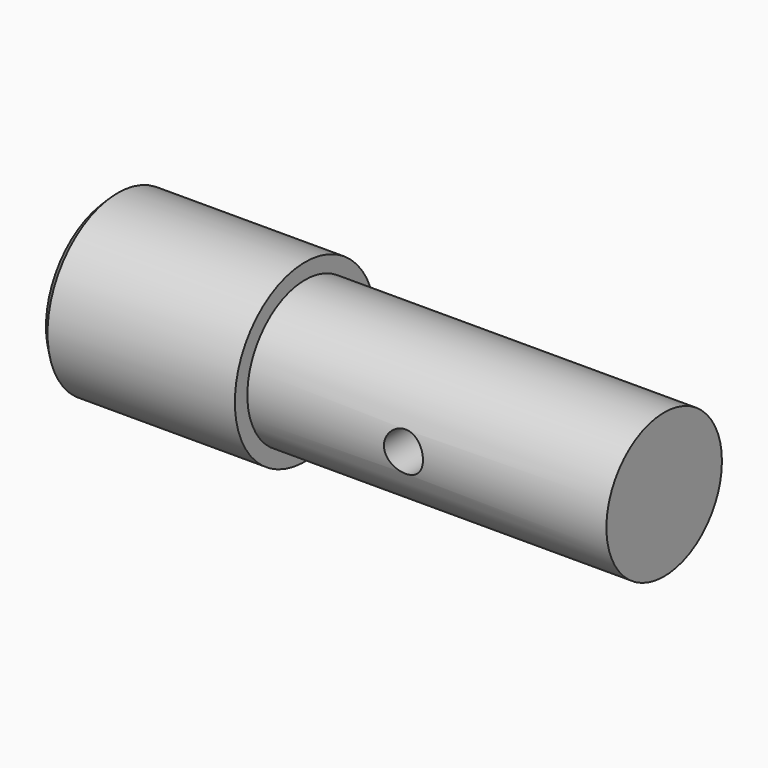
from build123d import *

# Parameters (mm, degrees)
F0_R     = 18.5
F1_DEPTH = 142
F0_R_2   = 22.5
F2_DEPTH = 50
F3_R     = 5
F4_DEPTH = 25
F5_SIZE  = 2


with BuildPart() as f1:
    # F0 (on Right) → F1 (new body)
    with BuildSketch(Plane.YZ):
        Circle(F0_R)
    extrude(amount=F1_DEPTH)

    # F0 (on Right) → F2 (join)
    with BuildSketch(Plane.YZ):
        Circle(F0_R_2)
        Circle(F0_R, mode=Mode.SUBTRACT)
    extrude(amount=F2_DEPTH)

    # F3 (on Front) → F4 (cut, symmetric)
    with BuildSketch(Plane.XZ):
        with Locations((90, 0)):
            Circle(F3_R)
    extrude(amount=F4_DEPTH, both=True, mode=Mode.SUBTRACT)

    # F5
    f5_edges = [f1.edges().sort_by_distance(p)[0] for p in [
        (0, -22.5, 0),
    ]]
    chamfer(f5_edges, length=F5_SIZE)


solid = f1.part
